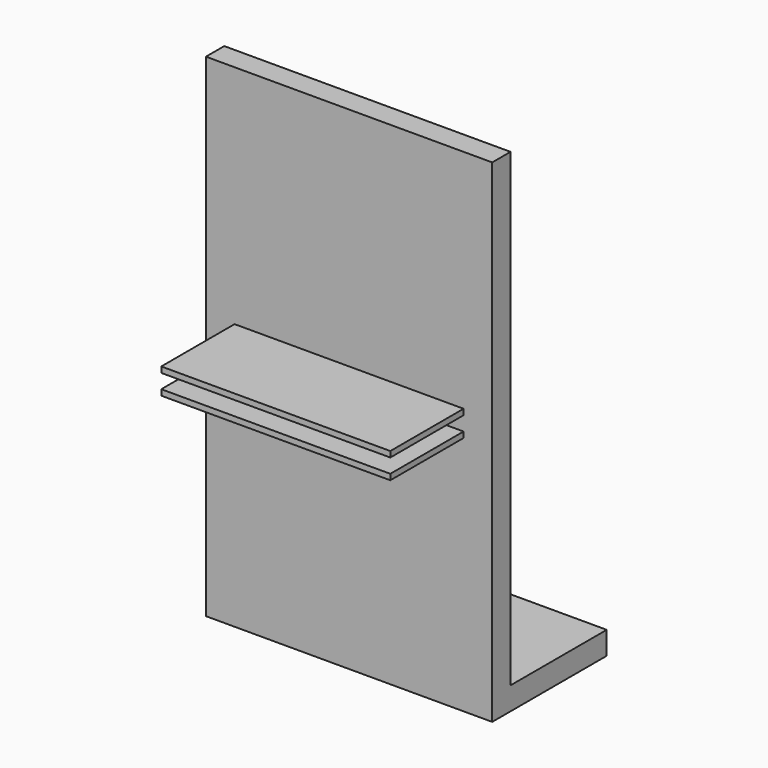
from build123d import *

# Parameters (mm, degrees)
F1_W     = 25.4
F1_H     = 0.635
F3_DEPTH = 10.16
F2_W     = 31.75
F2_H     = 54.61
F4_DEPTH = 2.54
F5_W     = 31.75
F5_H     = 2.54
F6_DEPTH = 15.875


with BuildPart() as f3:
    # F1 (on Front) → F3 (new body)
    with BuildSketch(Plane.XZ):
        with Locations((0, 1.905)):
            Rectangle(F1_W, F1_H)
        with Locations((0, -0.3175)):
            Rectangle(F1_W, F1_H)
    extrude(amount=F3_DEPTH)


with BuildPart() as f4:
    # F2 (on face) → F4 (new body)
    with BuildSketch(Plane.XZ):
        Rectangle(F2_W, F2_H)
    extrude(amount=-F4_DEPTH)

    # F5 (on Front) → F6 (join)
    with BuildSketch(Plane.XZ):
        with Locations((0, -26.053451)):
            Rectangle(F5_W, F5_H)
    extrude(amount=-F6_DEPTH)


solid = Compound([f3.part, f4.part])
